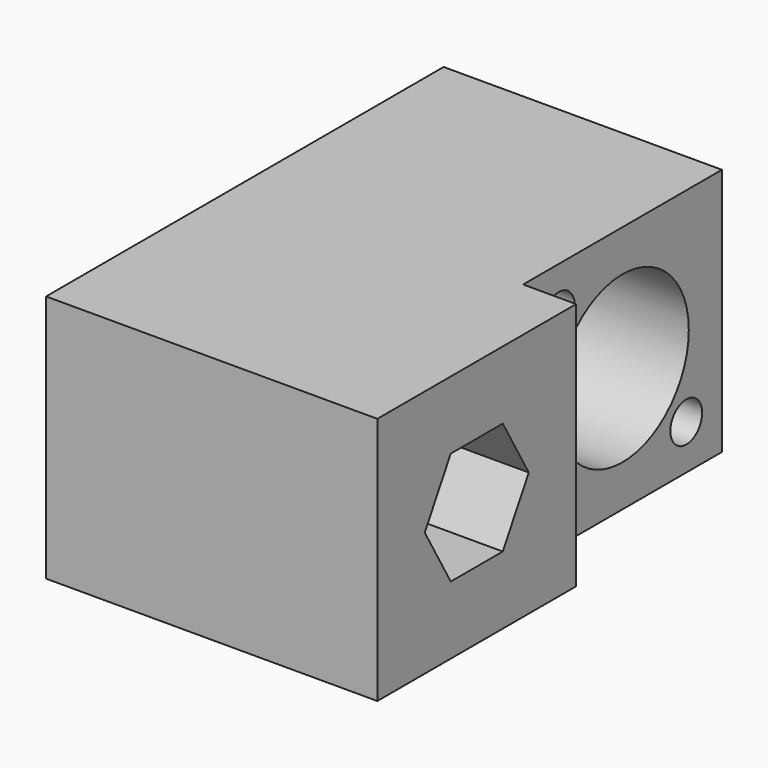
from build123d import *

# Parameters (mm, degrees)
F0_W     = 38.1
F0_H     = 19.05
F0_R     = 6.35
F1_DEPTH = 25.4
F2_W     = 38.1
F2_H     = 19.05
F2_R     = 3.81
F2_R_2   = 2.794
F3_DEPTH = 2.54
F4_W     = 19.05
F4_H     = 19.05
F5_DEPTH = 4.064
F6_R     = 1.524
F7_DEPTH = 19.05


with BuildPart() as f1:
    # F0 (on Right) → F1 (new body)
    with BuildSketch(Plane.YZ):
        Rectangle(F0_W, F0_H)
        Polygon((-14.510997, 0), (-12.017998, 4.318), (-7.032002, 4.318), (-4.539003, 0), (-7.032002, -4.318), (-12.017998, -4.318), align=None, mode=Mode.SUBTRACT)
        with Locations((9.525, 0)):
            Circle(F0_R, mode=Mode.SUBTRACT)
    extrude(amount=F1_DEPTH)

    # F2 (on face) → F3 (join)
    with BuildSketch(Plane(origin=(0, 0, 0), x_dir=(0, -1, 0), z_dir=(-1, 0, 0))):
        Rectangle(F2_W, F2_H)
        with Locations((-9.525, 0)):
            Circle(F2_R, mode=Mode.SUBTRACT)
        with Locations((9.525, 0)):
            Circle(F2_R_2, mode=Mode.SUBTRACT)
    extrude(amount=-F3_DEPTH)

    # F4 (on face) → F5 (cut)
    with BuildSketch(Plane.YZ.offset(25.4)):
        with Locations((9.525, 0)):
            Rectangle(F4_W, F4_H)
    extrude(amount=-F5_DEPTH, mode=Mode.SUBTRACT)

    # F6 (on face) → F7 (cut)
    with BuildSketch(Plane.YZ.offset(21.336)):
        with Locations((3.418426, 6.106574)):
            Circle(F6_R)
        with Locations((15.631574, -6.106574)):
            Circle(F6_R)
    extrude(amount=-F7_DEPTH, mode=Mode.SUBTRACT)


solid = f1.part
